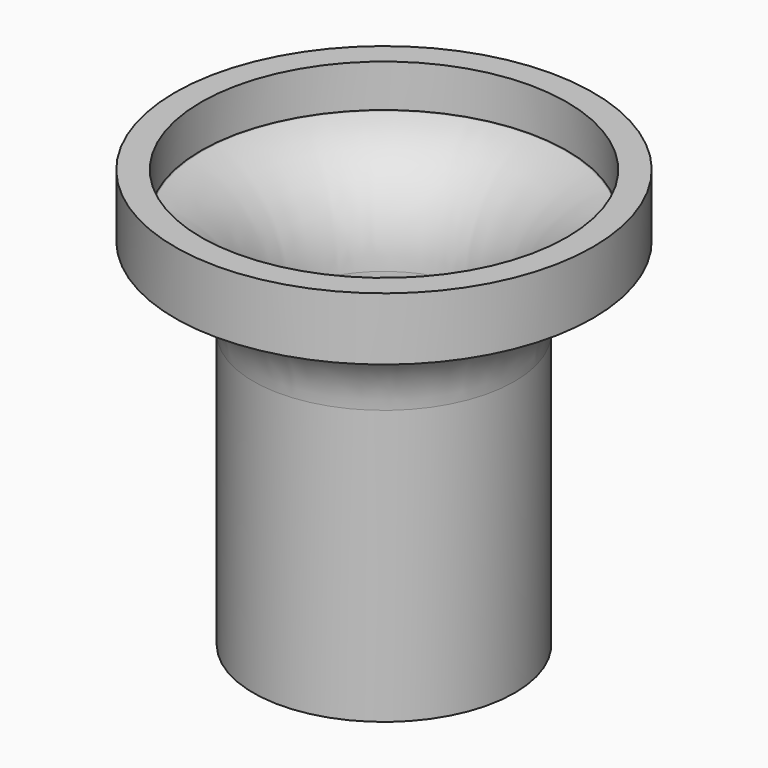
from build123d import *

# Parameters (mm, degrees)
THICKNESS_T = -5


with BuildPart() as part:
    # Sketch → Revolution (revolve)
    with BuildSketch(Plane.XZ):
        with BuildLine():
            Line((0, 0), (25, 0))
            Line((25, 0), (25, 52.470857))
            ThreePointArc((36.117714, 66.959745), (28.0997, 61.602279), (25, 52.470857))
            Line((36.117714, 66.959745), (40, 68))
            Line((40, 68), (40, 80))
            Line((40, 80), (0, 80))
            Line((0, 80), (0, 0))
        make_face()
    revolve(axis=Axis((0, 0, 0), (0, 0, 1)))

    # Thickness
    thickness_openings = [part.faces().sort_by_distance(p)[0] for p in [
        (0, 0, 80),
    ]]
    offset(amount=THICKNESS_T, openings=thickness_openings)


solid = part.part
